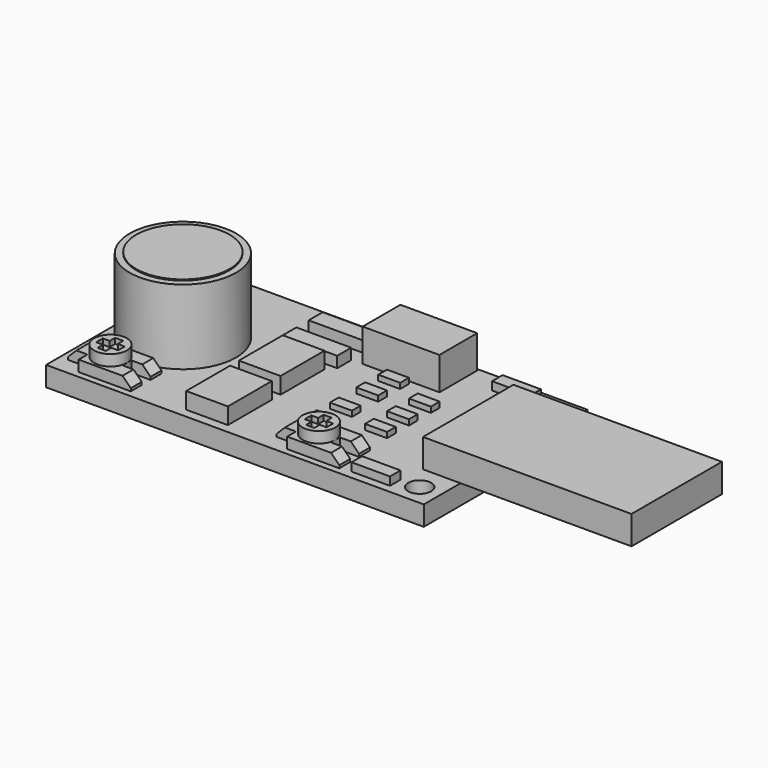
from build123d import *

# Parameters (mm, degrees)
SKETCH_W        = 34.42
SKETCH_H        = 18.67
PAD_DEPTH       = 1.8
SKETCH001_R     = 1.05
POCKET_DEPTH    = 5
SKETCH002_R     = 4.85
PAD001_DEPTH    = 6.8
SKETCH003_R     = 4.25
POCKET001_DEPTH = 6.801
SKETCH004_R     = 4.25
PAD002_DEPTH    = 6.9
SKETCH005_W     = 10.3
SKETCH005_H     = 2.6
PAD003_DEPTH    = 19
SKETCH006_W     = 7
SKETCH006_H     = 4.3
PAD004_DEPTH    = 3
SKETCH007_W     = 6.5
SKETCH007_H     = 3.5
PAD005_DEPTH    = 1
SKETCH008_R     = 1.5
PAD006_DEPTH    = 1
SKETCH009_W     = 2
SKETCH009_H     = 0.75
POCKET002_DEPTH = 0.5
SKETCH010_W     = 0.75
SKETCH010_H     = 2
POCKET003_DEPTH = 0.5
SKETCH011_W     = 5
SKETCH011_H     = 1
POCKET004_DEPTH = 5
POCKET005_DEPTH = 5
CHAMFER_SIZE    = 0.75
SKETCH013_W     = 6.5
SKETCH013_H     = 3.5
PAD007_DEPTH    = 1
SKETCH014_R     = 1.5
PAD008_DEPTH    = 1
SKETCH016_W     = 2
SKETCH016_H     = 0.75
POCKET009_DEPTH = 0.5
SKETCH015_W     = 0.75
SKETCH015_H     = 2
POCKET007_DEPTH = 0.5
SKETCH017_W     = 5
SKETCH017_H     = 1
POCKET008_DEPTH = 5
POCKET006_DEPTH = 5
CHAMFER001_SIZE = 0.75
SKETCH019_W     = 3.8
SKETCH019_H     = 5
PAD009_DEPTH    = 1.5
SKETCH020_W     = 3.8
SKETCH020_H     = 5
PAD010_DEPTH    = 1.5
SKETCH021_W     = 3.5
SKETCH021_H     = 1.2
PAD011_DEPTH    = 0.75
SKETCH022_W     = 3.5
SKETCH022_H     = 1.2
PAD012_DEPTH    = 0.75
SKETCH023_W     = 5
SKETCH023_H     = 1.6
PAD013_DEPTH    = 1
SKETCH024_W     = 5
SKETCH024_H     = 1.6
PAD014_DEPTH    = 1
SKETCH025_W     = 2
SKETCH025_H     = 1
PAD015_DEPTH    = 0.5
SKETCH026_W     = 2
SKETCH026_H     = 1
PAD016_DEPTH    = 0.5
SKETCH027_W     = 2
SKETCH027_H     = 1
PAD017_DEPTH    = 0.5
SKETCH028_W     = 2
SKETCH028_H     = 1
PAD018_DEPTH    = 0.5
SKETCH029_W     = 2
SKETCH029_H     = 1
PAD019_DEPTH    = 0.5
SKETCH030_W     = 2
SKETCH030_H     = 1
PAD020_DEPTH    = 0.5
SKETCH031_W     = 2
SKETCH031_H     = 1
PAD021_DEPTH    = 0.5


with BuildPart() as mainplate:
    # Sketch → Pad (new body)
    with BuildSketch(Plane.XY):
        with Locations((17.21, 0)):
            Rectangle(SKETCH_W, SKETCH_H)
    extrude(amount=-PAD_DEPTH)

    # Sketch001 → Pocket (cut)
    with BuildSketch(Plane.XY):
        with Locations((32.52, 7.43)):
            Circle(SKETCH001_R)
        with Locations((32.52, -7.43)):
            Circle(SKETCH001_R)
    extrude(amount=-POCKET_DEPTH, mode=Mode.SUBTRACT)


with BuildPart() as speaker_shell:
    # Sketch002 → Pad001 (new body)
    with BuildSketch(Plane.XY):
        Circle(SKETCH002_R)
    extrude(amount=PAD001_DEPTH)

    # Sketch003 → Pocket001 (cut, through all)
    with BuildSketch(Plane.XY):
        Circle(SKETCH003_R)
    extrude(amount=POCKET001_DEPTH, mode=Mode.SUBTRACT)


with BuildPart() as speaker_shell_1:
    # Body001 placement: moved
    add(speaker_shell.part.moved(Location((5, 0, 0))))


with BuildPart() as speaker_core:
    # Sketch004 → Pad002 (new body)
    with BuildSketch(Plane.XY):
        Circle(SKETCH004_R)
    extrude(amount=PAD002_DEPTH)


with BuildPart() as speaker_core_1:
    # Body002 placement: moved
    add(speaker_core.part.moved(Location((5, 0, 0))))


with BuildPart() as pins:
    # Sketch005 → Pad003 (new body)
    with BuildSketch(Plane.YZ):
        with Locations((0, 1.3)):
            Rectangle(SKETCH005_W, SKETCH005_H)
    extrude(amount=PAD003_DEPTH)


with BuildPart() as pins_1:
    # Body003 placement: moved
    add(pins.part.moved(Location((31, 0, 0))))


with BuildPart() as amp:
    # Sketch006 → Pad004 (new body)
    with BuildSketch(Plane.XY):
        Rectangle(SKETCH006_W, SKETCH006_H)
    extrude(amount=PAD004_DEPTH)


with BuildPart() as amp_1:
    # Body004 placement: moved
    add(amp.part.moved(Location((21, 7, 0))))


with BuildPart() as obj1:
    # Sketch007 → Pad005 (new body)
    with BuildSketch(Plane.XY):
        Rectangle(SKETCH007_W, SKETCH007_H)
    extrude(amount=PAD005_DEPTH)

    # Sketch008 (on Face6 of Pad005) → Pad006 (join)
    with BuildSketch(Plane.XY.offset(1)):
        Circle(SKETCH008_R)
    extrude(amount=PAD006_DEPTH)

    # Sketch009 (on Face8 of Pad006) → Pocket002 (cut)
    with BuildSketch(Plane.XY.offset(2)):
        Rectangle(SKETCH009_W, SKETCH009_H)
    extrude(amount=-POCKET002_DEPTH, mode=Mode.SUBTRACT)

    # Sketch010 (on Face8 of Pocket002) → Pocket003 (cut)
    with BuildSketch(Plane.XY.offset(2)):
        Rectangle(SKETCH010_W, SKETCH010_H)
    extrude(amount=-POCKET003_DEPTH, mode=Mode.SUBTRACT)

    # Sketch011 → Pocket004 (cut)
    with BuildSketch(Plane.XY):
        with Locations((4, 0)):
            Rectangle(SKETCH011_W, SKETCH011_H)
    extrude(amount=POCKET004_DEPTH, mode=Mode.SUBTRACT)

    # Sketch012 → Pocket005 (cut)
    with BuildSketch(Plane.XY):
        Polygon((-3.5, 0.75), (-3.5, -0.75), (-1.5, -0.75), (-1.5, -3.75), (-4.5, -3.75), (-4.5, 3.75), (-1.5, 3.75), (-1.5, 0.75), align=None)
    extrude(amount=POCKET005_DEPTH, mode=Mode.SUBTRACT)

    # Chamfer
    chamfer_edges = [obj1.edges().sort_by_distance(p)[0] for p in [
        (-3.25, 0, 1),
        (3.25, -1.125, 1),
        (3.25, 1.125, 1),
    ]]
    chamfer(chamfer_edges, length=CHAMFER_SIZE)


with BuildPart() as obj1_1:
    # Body005 placement: moved
    add(obj1.part.moved(Location((4, -7, 0))))


with BuildPart() as obj2:
    # Sketch013 → Pad007 (new body)
    with BuildSketch(Plane.XY):
        Rectangle(SKETCH013_W, SKETCH013_H)
    extrude(amount=PAD007_DEPTH)

    # Sketch014 (on Face6 of Pad007) → Pad008 (join)
    with BuildSketch(Plane.XY.offset(1)):
        Circle(SKETCH014_R)
    extrude(amount=PAD008_DEPTH)

    # Sketch016 (on Face8 of Pad008) → Pocket009 (cut)
    with BuildSketch(Plane.XY.offset(2)):
        Rectangle(SKETCH016_W, SKETCH016_H)
    extrude(amount=-POCKET009_DEPTH, mode=Mode.SUBTRACT)

    # Sketch015 (on Face8 of Pocket009) → Pocket007 (cut)
    with BuildSketch(Plane.XY.offset(2)):
        Rectangle(SKETCH015_W, SKETCH015_H)
    extrude(amount=-POCKET007_DEPTH, mode=Mode.SUBTRACT)

    # Sketch017 → Pocket008 (cut)
    with BuildSketch(Plane.XY):
        with Locations((4, 0)):
            Rectangle(SKETCH017_W, SKETCH017_H)
    extrude(amount=POCKET008_DEPTH, mode=Mode.SUBTRACT)

    # Sketch018 → Pocket006 (cut)
    with BuildSketch(Plane.XY):
        Polygon((-3.5, 0.75), (-3.5, -0.75), (-1.5, -0.75), (-1.5, -3.75), (-4.5, -3.75), (-4.5, 3.75), (-1.5, 3.75), (-1.5, 0.75), align=None)
    extrude(amount=POCKET006_DEPTH, mode=Mode.SUBTRACT)

    # Chamfer001
    chamfer001_edges = [obj2.edges().sort_by_distance(p)[0] for p in [
        (-3.25, 0, 1),
        (3.25, -1.125, 1),
        (3.25, 1.125, 1),
    ]]
    chamfer(chamfer001_edges, length=CHAMFER001_SIZE)


with BuildPart() as obj2_1:
    # Body006 placement: moved
    add(obj2.part.moved(Location((23, -7, 0))))


with BuildPart() as chip:
    # Sketch019 → Pad009 (new body)
    with BuildSketch(Plane.XY):
        Rectangle(SKETCH019_W, SKETCH019_H)
    extrude(amount=PAD009_DEPTH)


with BuildPart() as chip_1:
    # Body007 placement: moved
    add(chip.part.moved(Location((14, -6, 0))))


with BuildPart() as chip001:
    # Sketch020 → Pad010 (new body)
    with BuildSketch(Plane.XY):
        Rectangle(SKETCH020_W, SKETCH020_H)
    extrude(amount=PAD010_DEPTH)


with BuildPart() as chip001_1:
    # Body008 placement: moved
    add(chip001.part.moved(Location((14, 0, 0))))


with BuildPart() as obj3:
    # Sketch021 → Pad011 (new body)
    with BuildSketch(Plane.XY):
        Rectangle(SKETCH021_W, SKETCH021_H)
    extrude(amount=PAD011_DEPTH)


with BuildPart() as obj3_1:
    # Body009 placement: moved
    add(obj3.part.moved(Location((29, 8, 0))))


with BuildPart() as obj4:
    # Sketch022 → Pad012 (new body)
    with BuildSketch(Plane.XY):
        Rectangle(SKETCH022_W, SKETCH022_H)
    extrude(amount=PAD012_DEPTH)


with BuildPart() as obj4_1:
    # Body010 placement: moved
    add(obj4.part.moved(Location((29, -8, 0))))


with BuildPart() as obj5:
    # Sketch023 → Pad013 (new body)
    with BuildSketch(Plane.XY):
        Rectangle(SKETCH023_W, SKETCH023_H)
    extrude(amount=PAD013_DEPTH)


with BuildPart() as obj5_1:
    # Body011 placement: moved
    add(obj5.part.moved(Location((14, 7, 0))))


with BuildPart() as obj6:
    # Sketch024 → Pad014 (new body)
    with BuildSketch(Plane.XY):
        Rectangle(SKETCH024_W, SKETCH024_H)
    extrude(amount=PAD014_DEPTH)


with BuildPart() as obj6_1:
    # Body012 placement: moved
    add(obj6.part.moved(Location((14, 4, 0))))


with BuildPart() as obj7:
    # Sketch025 → Pad015 (new body)
    with BuildSketch(Plane.XY):
        Rectangle(SKETCH025_W, SKETCH025_H)
    extrude(amount=PAD015_DEPTH)


with BuildPart() as obj7_1:
    # Body013 placement: moved
    add(obj7.part.moved(Location((21, 1.5, 0))))


with BuildPart() as obj8:
    # Sketch026 → Pad016 (new body)
    with BuildSketch(Plane.XY):
        Rectangle(SKETCH026_W, SKETCH026_H)
    extrude(amount=PAD016_DEPTH)


with BuildPart() as obj8_1:
    # Body014 placement: moved
    add(obj8.part.moved(Location((21, 4, 0))))


with BuildPart() as obj9:
    # Sketch027 → Pad017 (new body)
    with BuildSketch(Plane.XY):
        Rectangle(SKETCH027_W, SKETCH027_H)
    extrude(amount=PAD017_DEPTH)


with BuildPart() as obj9_1:
    # Body015 placement: moved
    add(obj9.part.moved(Location((21, -1.5, 0))))


with BuildPart() as obj10:
    # Sketch028 → Pad018 (new body)
    with BuildSketch(Plane.XY):
        Rectangle(SKETCH028_W, SKETCH028_H)
    extrude(amount=PAD018_DEPTH)


with BuildPart() as obj10_1:
    # Body016 placement: moved
    add(obj10.part.moved(Location((21, -4, 0))))


with BuildPart() as obj11:
    # Sketch029 → Pad019 (new body)
    with BuildSketch(Plane.XY):
        Rectangle(SKETCH029_W, SKETCH029_H)
    extrude(amount=PAD019_DEPTH)


with BuildPart() as obj11_1:
    # Body017 placement: moved
    add(obj11.part.moved(Location((25, 2.5, 0))))


with BuildPart() as obj12:
    # Sketch030 → Pad020 (new body)
    with BuildSketch(Plane.XY):
        Rectangle(SKETCH030_W, SKETCH030_H)
    extrude(amount=PAD020_DEPTH)


with BuildPart() as obj12_1:
    # Body018 placement: moved
    add(obj12.part.moved(Location((25, 0, 0))))


with BuildPart() as obj13:
    # Sketch031 → Pad021 (new body)
    with BuildSketch(Plane.XY):
        Rectangle(SKETCH031_W, SKETCH031_H)
    extrude(amount=PAD021_DEPTH)


with BuildPart() as obj13_1:
    # Body019 placement: moved
    add(obj13.part.moved(Location((25, -2.5, 0))))


solid = Compound([mainplate.part, speaker_shell_1.part, speaker_core_1.part, pins_1.part, amp_1.part, obj1_1.part, obj2_1.part, chip_1.part, chip001_1.part, obj3_1.part, obj4_1.part, obj5_1.part, obj6_1.part, obj7_1.part, obj8_1.part, obj9_1.part, obj10_1.part, obj11_1.part, obj12_1.part, obj13_1.part])
